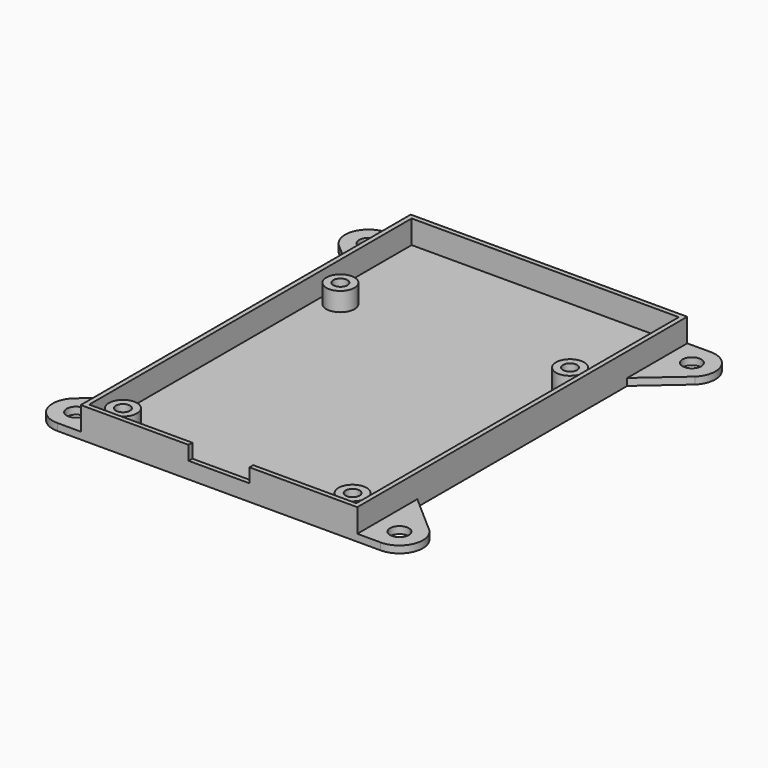
from build123d import *

# Parameters (mm, degrees)
SKETCH_R        = 2
PAD_DEPTH       = 1.5
SKETCH001_W     = 59
SKETCH001_H     = 88
PAD001_DEPTH    = 5
SKETCH002_W     = 57
SKETCH002_H     = 86
POCKET_DEPTH    = 5
SKETCH003_W     = 13
SKETCH003_H     = 3
POCKET001_DEPTH = 1
SKETCH004_R     = 3
SKETCH004_R_2   = 1.5
PAD002_DEPTH    = 4


with BuildPart() as part:
    # Sketch → Pad (new body)
    with BuildSketch(Plane.XY):
        with BuildLine():
            Line((0, 0), (59, 0))
            Line((63.999982, 0), (59, 0))
            ThreePointArc((63.999982, 0), (68.619394, 3.086575), (67.535534, 8.535534))
            Line((59, 16), (67.535534, 8.535534))
            Line((59, 16), (59, 72))
            Line((59, 72), (67.535534, 79.464466))
            ThreePointArc((67.535534, 79.464466), (68.619394, 84.913425), (63.999983, 88))
            Line((59, 88), (63.999983, 88))
            Line((59, 88), (0, 88))
            Line((-4.999983, 88), (0, 88))
            ThreePointArc((-4.999983, 88), (-9.619394, 84.913425), (-8.535534, 79.464466))
            Line((-8.535534, 79.464466), (0, 72))
            Line((0, 72), (0, 16))
            Line((-8.535534, 8.535534), (0, 16))
            ThreePointArc((-8.535534, 8.535534), (-9.619398, 3.086583), (-5, 0))
            Line((0, 0), (-5, 0))
        make_face()
        with Locations((-5, 83)):
            Circle(SKETCH_R, mode=Mode.SUBTRACT)
        with Locations((64, 83)):
            Circle(SKETCH_R, mode=Mode.SUBTRACT)
        with Locations((-5, 5)):
            Circle(SKETCH_R, mode=Mode.SUBTRACT)
        with Locations((64, 5)):
            Circle(SKETCH_R, mode=Mode.SUBTRACT)
    extrude(amount=PAD_DEPTH)

    # Sketch001 → Pad001 (new body)
    with BuildSketch(Plane.XY.offset(1.5)):
        with Locations((29.5, 44)):
            Rectangle(SKETCH001_W, SKETCH001_H)
    extrude(amount=PAD001_DEPTH)

    # Sketch002 → Pocket (cut)
    with BuildSketch(Plane.XY.offset(6.5)):
        with Locations((29.5, 44)):
            Rectangle(SKETCH002_W, SKETCH002_H)
    extrude(amount=-POCKET_DEPTH, mode=Mode.SUBTRACT)

    # Sketch003 → Pocket001 (cut)
    with BuildSketch(Plane.XZ):
        with Locations((29.5, 5)):
            Rectangle(SKETCH003_W, SKETCH003_H)
    extrude(amount=-POCKET001_DEPTH, mode=Mode.SUBTRACT)

    # Sketch004 → Pad002 (new body)
    with BuildSketch(Plane.XY.offset(1.5)):
        with Locations((5, 63)):
            Circle(SKETCH004_R)
        with Locations((5, 63)):
            Circle(SKETCH004_R_2, mode=Mode.SUBTRACT)
        with Locations((54, 63)):
            Circle(SKETCH004_R)
        with Locations((54, 63)):
            Circle(SKETCH004_R_2, mode=Mode.SUBTRACT)
        with Locations((5, 5)):
            Circle(SKETCH004_R)
        with Locations((5, 5)):
            Circle(SKETCH004_R_2, mode=Mode.SUBTRACT)
        with Locations((54, 5)):
            Circle(SKETCH004_R)
        with Locations((54, 5)):
            Circle(SKETCH004_R_2, mode=Mode.SUBTRACT)
    extrude(amount=PAD002_DEPTH)


solid = part.part
